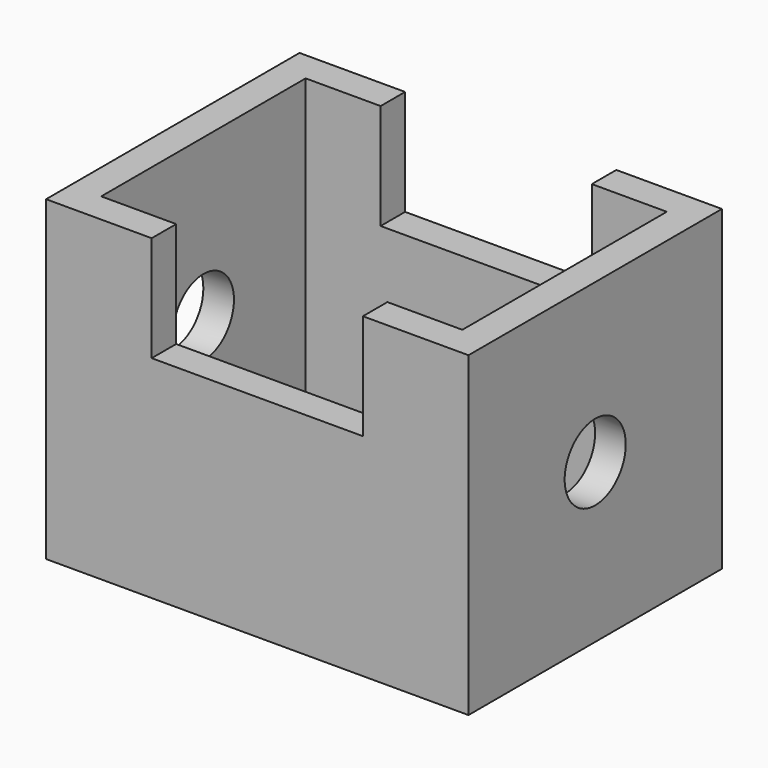
from build123d import *

# Parameters (mm, degrees)
F0_W     = 101.6
F0_H     = 76.2
F1_DEPTH = 38.1
F2_W     = 86.868002
F2_H     = 61.468002
F3_DEPTH = 76.201
F4_W     = 50.8
F4_H     = 25.4
F4_H_2   = 25.714025
F5_DEPTH = 76.201
F6_R     = 9.179985
F7_DEPTH = 101.601


with BuildPart() as f1:
    # F0 (on Top) → F1 (new body, symmetric)
    with BuildSketch(Plane.XY):
        Rectangle(F0_W, F0_H)
    extrude(amount=F1_DEPTH, both=True)

    # F2 (on face) → F3 (cut, through all)
    with BuildSketch(Plane.XY.offset(38.1)):
        Rectangle(F2_W, F2_H)
    extrude(amount=-F3_DEPTH, mode=Mode.SUBTRACT)

    # F4 (on face) → F5 (cut, through all)
    with BuildSketch(Plane.XZ.offset(38.1)):
        with Locations((0, 25.4)):
            Rectangle(F4_W, F4_H)
        with Locations((0, 50.957012)):
            Rectangle(F4_W, F4_H_2)
    extrude(amount=-F5_DEPTH, mode=Mode.SUBTRACT)

    # F6 (on face) → F7 (cut, through all)
    with BuildSketch(Plane.YZ.offset(50.8)):
        Circle(F6_R)
    extrude(amount=-F7_DEPTH, mode=Mode.SUBTRACT)


solid = f1.part
